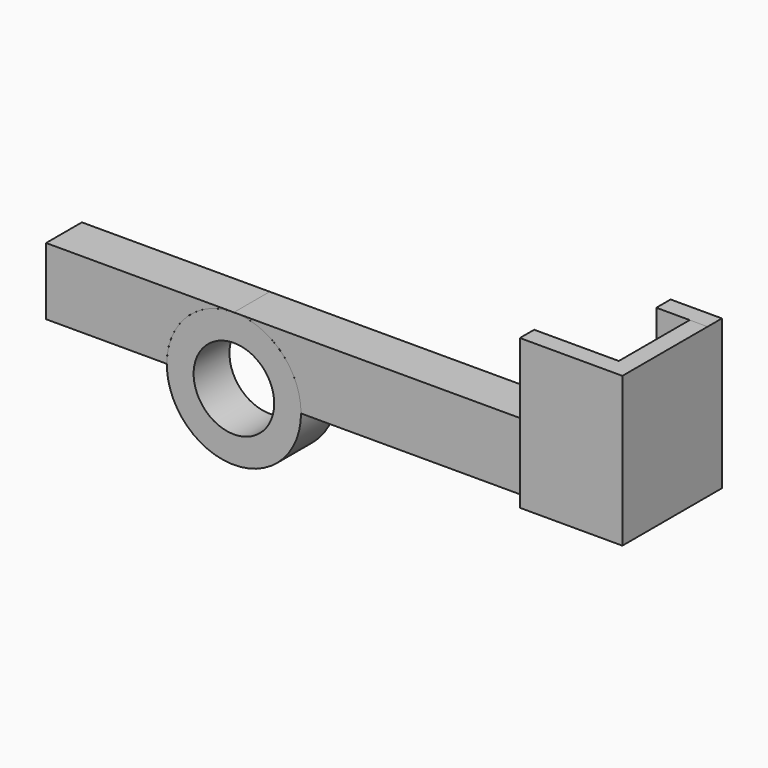
from build123d import *

# Parameters (mm, degrees)
F0_R     = 7.5
F0_R_2   = 4.5
F1_DEPTH = 5
F3_DEPTH = 5
F4_W     = 5
F4_H     = 7.5
F5_DEPTH = 2
F6_W     = 3.731436
F6_H     = 16.702701
F6_W_2   = 2
F7_DEPTH = 2
F9_DEPTH = 2


with BuildPart() as f1:
    # F0 (on Front) → F1 (new body)
    with BuildSketch(Plane.XZ):
        Circle(F0_R)
        Circle(F0_R_2, mode=Mode.SUBTRACT)
    extrude(amount=F1_DEPTH)


with BuildPart() as f3:
    # F2 (on face) → F3 (new body)
    with BuildSketch(Plane.XZ.offset(5)):
        with BuildLine():
            ThreePointArc((-7.5, 0), (-5.303301, 5.303301), (0, 7.5))
            Line((0, 7.5), (-20.984, 7.5))
            Line((-20.984, 7.5), (-20.984, 0))
            Line((-20.984, 0), (-7.5, 0))
        make_face()
        with BuildLine():
            ThreePointArc((0, 7.5), (5.303301, 5.303301), (7.5, 0))
            Line((7.5, 0), (43, 0))
            Line((43, 0), (43, 7.5))
            Line((43, 7.5), (0, 7.5))
        make_face()
    extrude(amount=-F3_DEPTH)

    # F4 (on face) → F5 (join)
    with BuildSketch(Plane.YZ.offset(43)):
        Polygon((0, 7.5), (0, 0), (4.9, 0), (4.9, 16.702701), (-5, 16.702701), (-5, 7.5), align=None)
        with Locations((-2.5, 3.75)):
            Rectangle(F4_W, F4_H)
    extrude(amount=F5_DEPTH)

    # F6 (on face) → F7 (join)
    with BuildSketch(Plane(origin=(0, 4.9, 0), x_dir=(-1, 0, 0), z_dir=(0, 1, 0))):
        with Locations((-41.134282, 8.35135)):
            Rectangle(F6_W, F6_H)
        with Locations((-44, 8.35135)):
            Rectangle(F6_W_2, F6_H)
    extrude(amount=F7_DEPTH)

    # F8 (on face) → F9 (join)
    with BuildSketch(Plane.XZ.offset(5)):
        Polygon((33.546664, 0), (45, 0), (45, 16.702701), (43, 16.702701), (33.546664, 16.702701), align=None)
        Polygon((33.546664, 0), (45, 0), (45, 16.702701), (43, 16.702701), (33.546664, 16.702701), align=None)
    extrude(amount=F9_DEPTH)


solid = Compound([f1.part, f3.part])
